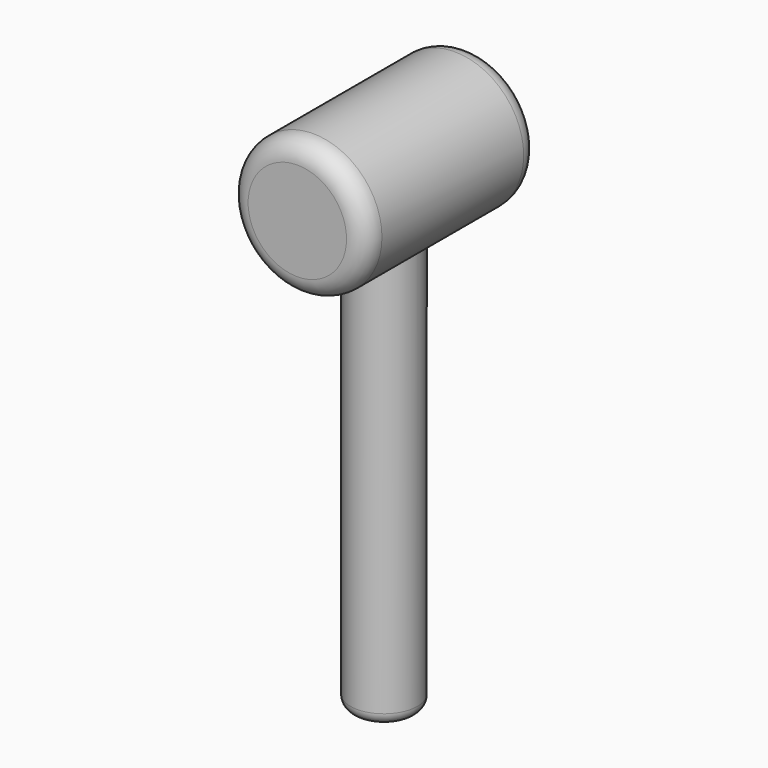
from build123d import *

# Parameters (mm, degrees)
F0_R     = 17.5
F1_DEPTH = 27.5
F2_R     = 8.5
F3_DEPTH = 120
F4_R     = 5
F5_R     = 3


with BuildPart() as f1:
    # F0 (on Front) → F1 (new body, symmetric)
    with BuildSketch(Plane.XZ):
        Circle(F0_R)
    extrude(amount=F1_DEPTH, both=True)

    # F2 (on Top) → F3 (join)
    with BuildSketch(Plane.XY):
        Circle(F2_R)
    extrude(amount=-F3_DEPTH)

    # F4
    f4_edges = [f1.edges().sort_by_distance(p)[0] for p in [
        (-17.5, 27.5, 0),
        (-17.5, -27.5, 0),
    ]]
    fillet(f4_edges, radius=F4_R)

    # F5
    f5_edges = [f1.edges().sort_by_distance(p)[0] for p in [
        (-8.5, 0, -120),
    ]]
    fillet(f5_edges, radius=F5_R)


solid = f1.part
